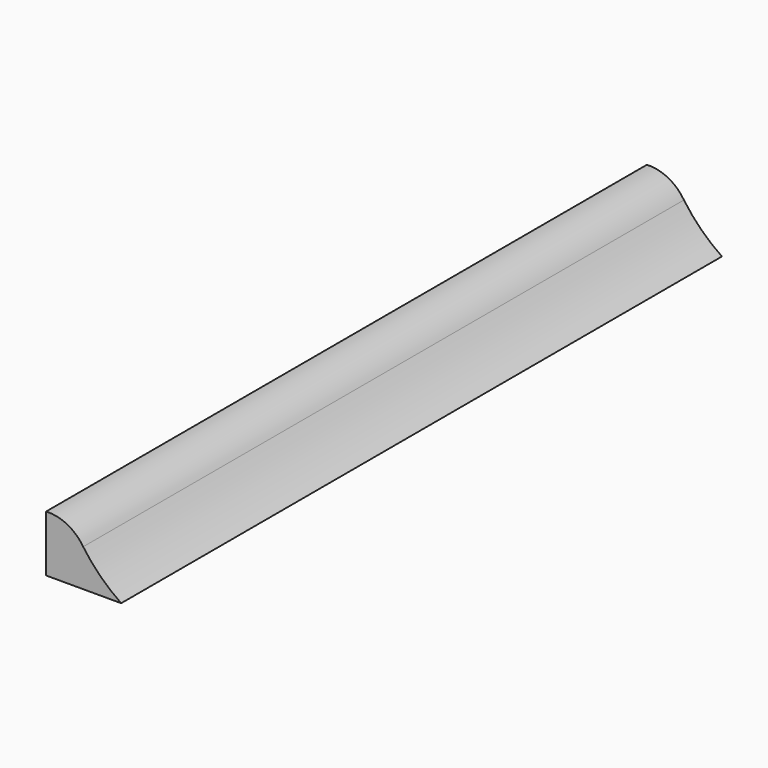
from build123d import *

# Parameters (mm, degrees)
F1_DEPTH = 254


with BuildPart() as f1:
    # F0 (on Front) → F1 (new body)
    with BuildSketch(Plane.XZ):
        with BuildLine():
            Line((0, 19.05), (0, 0))
            Line((0, 0), (25.4, 0))
            ThreePointArc((25.4, 0), (18.396861, 5.732568), (12.544761, 12.636134))
            ThreePointArc((12.544761, 12.636134), (7.140168, 17.540356), (0, 19.05))
        make_face()
    extrude(amount=F1_DEPTH)


solid = f1.part
